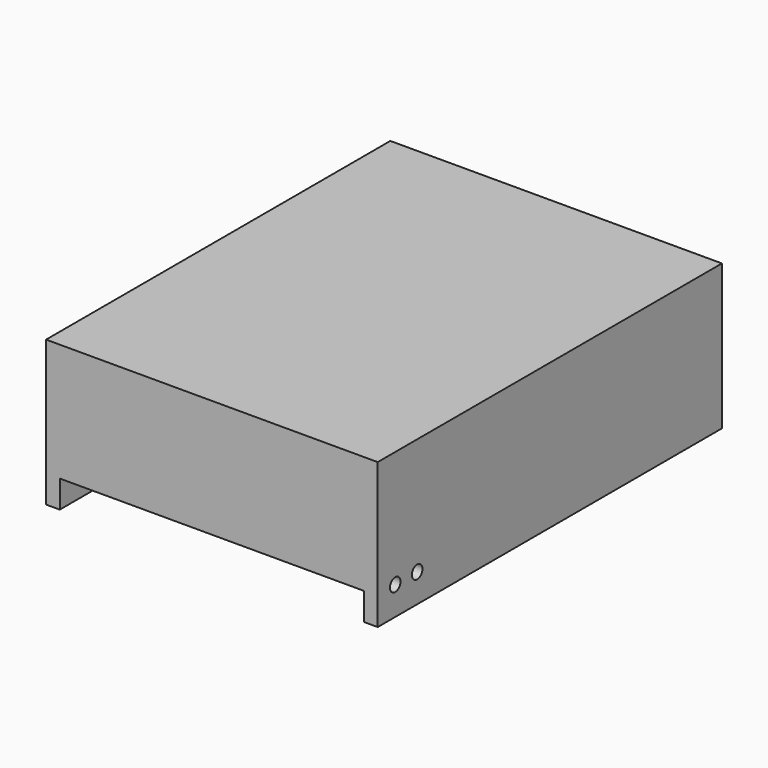
from build123d import *

# Parameters (mm, degrees)
F1_W      = 60.5
F1_H      = 78.5
F2_DEPTH  = 21.5
F0_W      = 55.5
F0_H      = 73.5
F3_DEPTH  = 19.5
F4_W      = 78.5
F4_H      = 5
F5_DEPTH  = 2.5
F6_R      = 1.2
F7_DEPTH  = 25
F8_W      = 78.5
F8_H      = 5
F9_DEPTH  = 2.5
F10_R     = 1.2
F11_DEPTH = 25
F12_R     = 1.2
F13_DEPTH = 80
F14_W     = 44.0962035209
F14_H     = 7.4383728206
F15_DEPTH = 2.5


with BuildPart() as f2:
    # F1 (on Top) → F2 (new body)
    with BuildSketch(Plane.XY):
        with Locations((27.75, 36.75)):
            Rectangle(F1_W, F1_H)
    extrude(amount=F2_DEPTH)

    # F0 (on Top) → F3 (cut)
    with BuildSketch(Plane.XY):
        with Locations((27.75, 36.75)):
            Rectangle(F0_W, F0_H)
    extrude(amount=F3_DEPTH, mode=Mode.SUBTRACT)

    # F4 (on face) → F5 (join, through all)
    with BuildSketch(Plane.YZ.offset(58)):
        with Locations((36.75, -2.5)):
            Rectangle(F4_W, F4_H)
    extrude(amount=-F5_DEPTH)

    # F6 (on face) → F7 (cut)
    with BuildSketch(Plane.YZ.offset(58)):
        with Locations((1.5, 0.2)):
            Circle(F6_R)
        with Locations((6.5, 0.2)):
            Circle(F6_R)
    extrude(amount=-F7_DEPTH, mode=Mode.SUBTRACT)

    # F8 (on face) → F9 (join, through all)
    with BuildSketch(Plane(origin=(-2.5, 0, 0), x_dir=(0, -1, 0), z_dir=(-1, 0, 0))):
        with Locations((-36.75, -2.5)):
            Rectangle(F8_W, F8_H)
    extrude(amount=-F9_DEPTH)

    # F10 (on Right) → F11 (cut)
    with BuildSketch(Plane.YZ):
        with Locations((1.5, 0.2)):
            Circle(F10_R)
        with Locations((6.5, 0.2)):
            Circle(F10_R)
    extrude(amount=-F11_DEPTH, mode=Mode.SUBTRACT)

    # F12 (on face) → F13 (cut)
    with BuildSketch(Plane.XZ.offset(2.5)):
        with Locations((9.75, 8.75)):
            Circle(F12_R)
        with Locations((45.75, 8.75)):
            Circle(F12_R)
    extrude(amount=-F13_DEPTH, mode=Mode.SUBTRACT)

    # F14 (on face) → F15 (join, through all)
    with BuildSketch(Plane.XZ.offset(2.5)):
        with Locations((27.1060718223, 8.4709739313)):
            Rectangle(F14_W, F14_H)
    extrude(amount=-F15_DEPTH)


solid = f2.part
